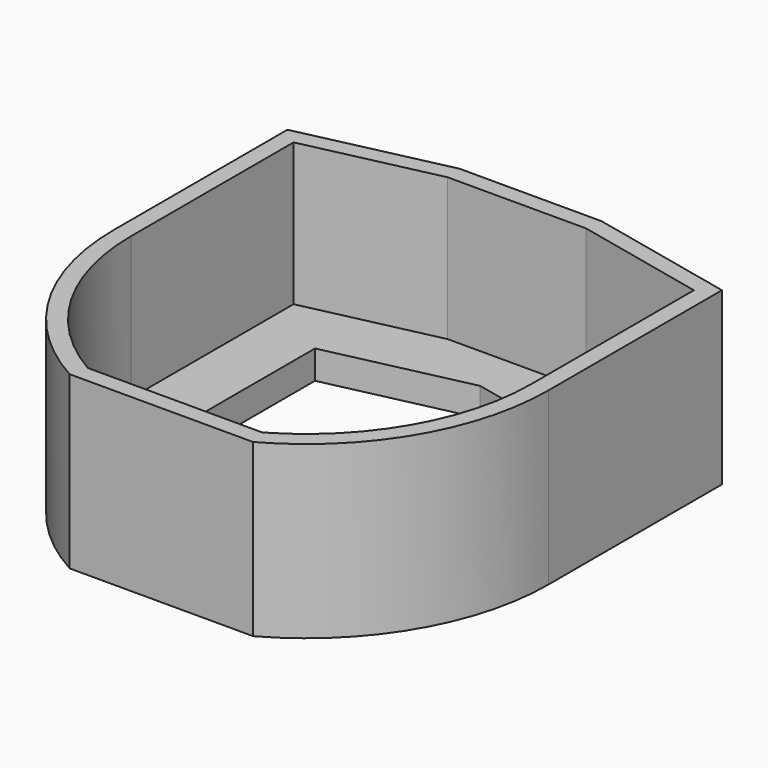
from build123d import *

# Parameters (mm, degrees)
F2_DEPTH = 12.7
F4_DEPTH = 2.54
F5_DEPTH = 25.4


with BuildPart() as f2:
    # F1 (on Top) → F2 (new body)
    with BuildSketch(Plane.XY):
        with BuildLine():
            Line((6.339406, 21.194164), (-6.339406, 21.194164))
            Line((-6.339406, 21.194164), (-19.3675, 18.299032))
            Line((-19.3675, 18.299032), (-19.3675, -1.016))
            ThreePointArc((-19.3675, -1.016), (-16.359844, -12.015319), (-8.173823, -19.953836))
            Line((-8.173823, -19.953836), (8.173823, -19.953836))
            ThreePointArc((8.173823, -19.953836), (16.359844, -12.015319), (19.3675, -1.016))
            Line((19.3675, -1.016), (19.3675, 18.299032))
            Line((19.3675, 18.299032), (6.339406, 21.194164))
        make_face()
        with BuildLine():
            Line((7.774487, -18.429836), (-7.774487, -18.429836))
            ThreePointArc((-7.774487, -18.429836), (-15.145045, -11.073668), (-17.8435, -1.016))
            Line((-17.8435, -1.016), (-17.8435, 17.076522))
            Line((-17.8435, 17.076522), (-6.172113, 19.670164))
            Line((-6.172113, 19.670164), (6.172113, 19.670164))
            Line((6.172113, 19.670164), (17.8435, 17.076522))
            Line((17.8435, 17.076522), (17.8435, -1.016))
            ThreePointArc((17.8435, -1.016), (15.145045, -11.073668), (7.774487, -18.429836))
        make_face(mode=Mode.SUBTRACT)
    extrude(amount=F2_DEPTH)

    # F3 (on face) → F4 (join)
    with BuildSketch(Plane(origin=(0, 0, 0), x_dir=(1, 0, 0), z_dir=(0, 0, -1))):
        with BuildLine():
            Line((8.173823, 19.953836), (-8.173823, 19.953836))
            ThreePointArc((-8.173823, 19.953836), (-16.359844, 12.015319), (-19.3675, 1.016))
            Line((-19.3675, 1.016), (-19.3675, -18.299032))
            Line((-19.3675, -18.299032), (-6.339406, -21.194164))
            Line((-6.339406, -21.194164), (6.339406, -21.194164))
            Line((6.339406, -21.194164), (19.3675, -18.299032))
            Line((19.3675, -18.299032), (19.3675, 1.016))
            ThreePointArc((19.3675, 1.016), (16.359844, 12.015319), (8.173823, 19.953836))
        make_face()
    extrude(amount=F4_DEPTH)

    # F1 (on Top) → F5 (cut)
    with BuildSketch(Plane.XY):
        with BuildLine():
            Line((12.5095, 12.797739), (0, 15.577628))
            Line((0, 15.577628), (-12.5095, 12.797739))
            Line((-12.5095, 12.797739), (-12.5095, -1.016))
            ThreePointArc((-12.5095, -1.016), (-8.953801, -10.623903), (0, -15.60228))
            ThreePointArc((0, -15.60228), (8.953801, -10.623903), (12.5095, -1.016))
            Line((12.5095, -1.016), (12.5095, 12.797739))
        make_face()
    extrude(amount=-F5_DEPTH, mode=Mode.SUBTRACT)


solid = f2.part
